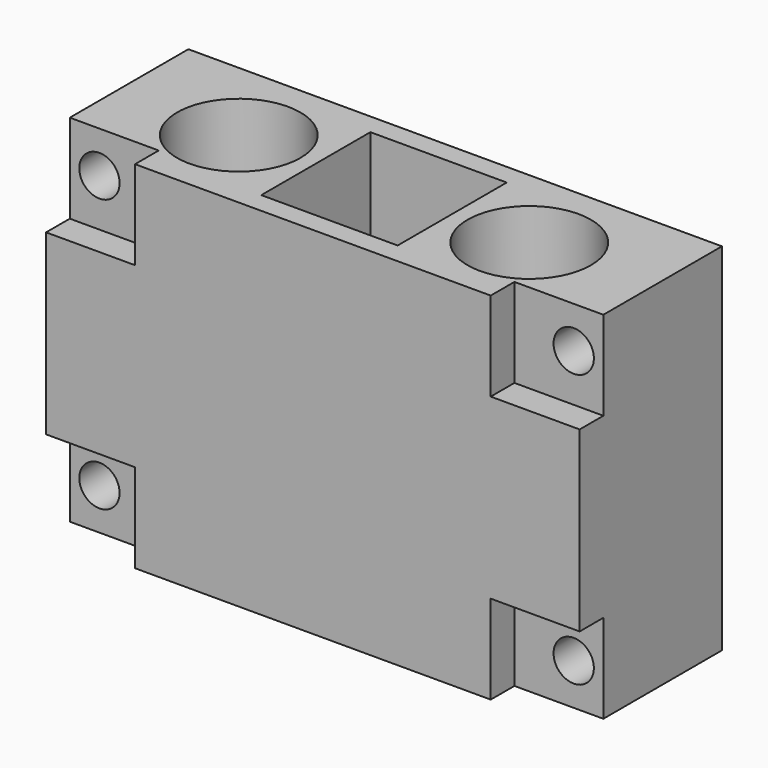
from build123d import *

# Parameters (mm, degrees)
SKETCH_W        = 90
SKETCH_H        = 30
PAD_DEPTH       = 60
SKETCH001_R     = 5
SKETCH001_R_2   = 1.5
SKETCH001_R_3   = 10.4
POCKET_DEPTH    = 60
SKETCH002_R     = 3.4
POCKET001_DEPTH = 30
SKETCH003_W     = 23
SKETCH003_H     = 23
POCKET002_DEPTH = 20
SKETCH004_W     = 15
SKETCH004_H     = 15
POCKET003_DEPTH = 5


with BuildPart() as part:
    # Sketch → Pad (new body)
    with BuildSketch(Plane.XY):
        with Locations((45, 15)):
            Rectangle(SKETCH_W, SKETCH_H)
    extrude(amount=PAD_DEPTH)

    # Sketch001 (on Face6 of Pad) → Pocket (cut)
    with BuildSketch(Plane.XY.offset(60)):
        with Locations((45, 15)):
            Circle(SKETCH001_R)
        with Locations((45, 22.5)):
            Circle(SKETCH001_R_2)
        with Locations((37.5, 15)):
            Circle(SKETCH001_R_2)
        with Locations((45, 7.5)):
            Circle(SKETCH001_R_2)
        with Locations((52.5, 15)):
            Circle(SKETCH001_R_2)
        with Locations((20.5, 15)):
            Circle(SKETCH001_R_3)
        with Locations((69.5, 15)):
            Circle(SKETCH001_R_3)
    extrude(amount=-POCKET_DEPTH, mode=Mode.SUBTRACT)

    # Sketch002 (on Face6 of Pocket) → Pocket001 (cut)
    with BuildSketch(Plane.XZ):
        with Locations((5, 53)):
            Circle(SKETCH002_R)
        with Locations((5, 7)):
            Circle(SKETCH002_R)
        with Locations((85, 53)):
            Circle(SKETCH002_R)
        with Locations((85, 7)):
            Circle(SKETCH002_R)
    extrude(amount=-POCKET001_DEPTH, mode=Mode.SUBTRACT)

    # Sketch003 (on Face4 of Pocket001) → Pocket002 (cut)
    with BuildSketch(Plane.XY.offset(60)):
        with Locations((45, 15)):
            Rectangle(SKETCH003_W, SKETCH003_H)
    extrude(amount=-POCKET002_DEPTH, mode=Mode.SUBTRACT)

    # Sketch004 (on Face10 of Pocket002) → Pocket003 (cut)
    with BuildSketch(Plane.XZ):
        with Locations((7.5, 52.5)):
            Rectangle(SKETCH004_W, SKETCH004_H)
        with Locations((82.5, 52.5)):
            Rectangle(SKETCH004_W, SKETCH004_H)
        with Locations((82.5, 7.5)):
            Rectangle(SKETCH004_W, SKETCH004_H)
        with Locations((7.5, 7.5)):
            Rectangle(SKETCH004_W, SKETCH004_H)
    extrude(amount=-POCKET003_DEPTH, mode=Mode.SUBTRACT)


solid = part.part
